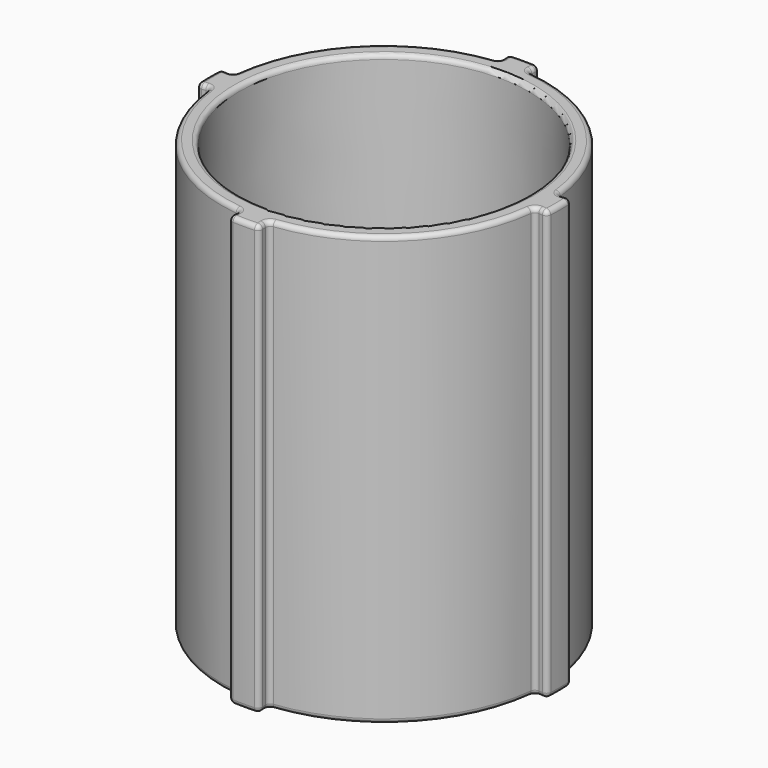
from build123d import *

# Parameters (mm, degrees)
SKETCH004_W         = 3
SKETCH004_H         = 95
REVOLUTION004_ANGLE = -10
POLARPATTERN_COUNT  = 4
FILLET_R            = 1.5002
FILLET014_R         = 1
FILLET015_R         = 1
FILLET016_R         = 1


with BuildPart() as part:
    # Sketch → Revolution (revolve)
    with BuildSketch(Plane.XZ):
        Polygon((36, 47.5), (36, -47.5), (32.15, -47.5), (32, -2.5), (30.3998, -2.5), (30.3998, 2.5), (32, 2.5), (32.15, 47.5), align=None)
    revolve(axis=Axis((0, 0, 0), (0, 0, 1)))

    # Sketch004 → Revolution004 (revolve)
    with BuildSketch(Plane(origin=(0, 0, 0), x_dir=(0.996195, 0.087156, 0), z_dir=(0.087156, -0.996195, 0))):
        with Locations((37.363009, 0)):
            Rectangle(SKETCH004_W, SKETCH004_H)
    revolution004 = revolve(axis=Axis((0, 0, 0), (0, 0, 1)), revolution_arc=REVOLUTION004_ANGLE)

    # PolarPattern: Revolution004 ×4 about axis
    polarpattern_axis = Axis((0, 0, 0), (0, 0, 1))
    for i in range(1, POLARPATTERN_COUNT):
        add(revolution004.rotate(polarpattern_axis, i * 360 / POLARPATTERN_COUNT))

    # Fillet
    fillet_edges = [part.edges().sort_by_distance(p)[0] for p in [
        (-32, 0, -2.5),
    ]]
    fillet(fillet_edges, radius=FILLET_R)

    # Fillet014
    fillet014_edges = [part.edges().sort_by_distance(p)[0] for p in [
        (-32.15, 0, -47.5),
        (-32.15, 0, 47.5),
    ]]
    fillet(fillet014_edges, radius=FILLET014_R)

    # Fillet015
    fillet015_edges = [part.edges().sort_by_distance(p)[0] for p in [
        (-3.137607, -35.863009, 0),
        (-3.387134, -38.715124, 0),
        (3.387134, -38.715124, 0),
        (3.137607, -35.863009, 0),
        (35.863009, -3.137607, 0),
        (38.715124, -3.387134, 0),
        (38.715124, 3.387134, 0),
        (35.863009, 3.137607, 0),
        (3.137607, 35.863009, 0),
        (3.387134, 38.715124, 0),
        (-3.387134, 38.715124, 0),
        (-3.137607, 35.863009, 0),
        (-35.863009, 3.137607, 0),
        (-38.715124, 3.387134, 0),
        (-38.715124, -3.387134, 0),
        (-35.863009, -3.137607, 0),
    ]]
    fillet(fillet015_edges, radius=FILLET015_R)

    # Fillet016
    fillet016_edges = [part.edges().sort_by_distance(p)[0] for p in [
        (-25.455844, -25.455844, 47.5),
        (-25.455844, -25.455844, -47.5),
    ]]
    fillet(fillet016_edges, radius=FILLET016_R)


solid = part.part
